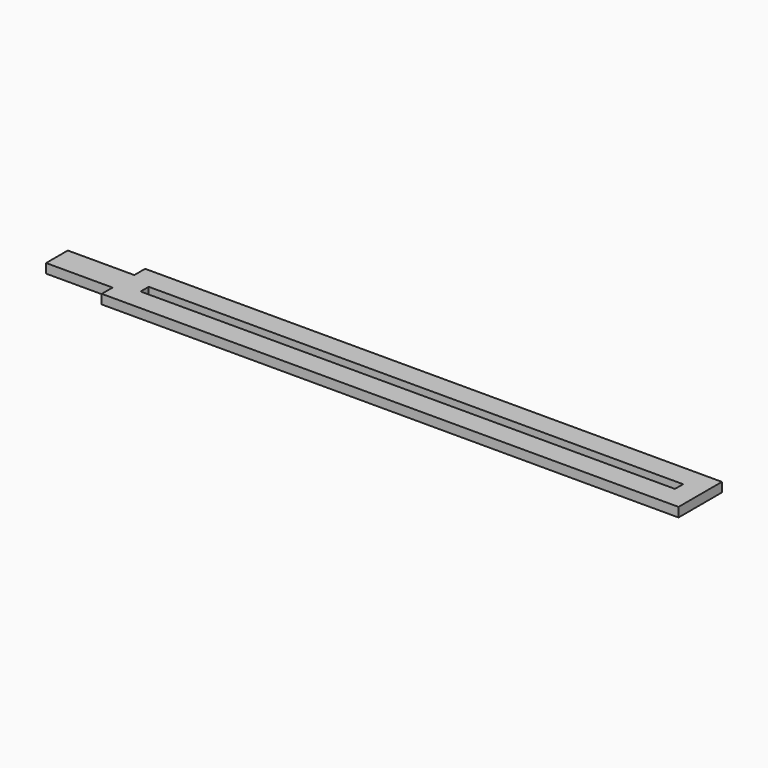
from build123d import *

# Parameters (mm, degrees)
SKETCH_W  = 200
SKETCH_H  = 3.81
PAD_DEPTH = 3.5


with BuildPart() as part:
    # Sketch → Pad (new body)
    with BuildSketch(Plane.XY):
        Polygon((0, 0), (215.86, 0), (215.86, 20.3), (0, 20.3), (0, 15.23), (-24.89, 15.23), (-24.89, 5.07), (0, 5.07), align=None)
        with Locations((107.93, 10.15)):
            Rectangle(SKETCH_W, SKETCH_H, mode=Mode.SUBTRACT)
    extrude(amount=PAD_DEPTH)


solid = part.part
